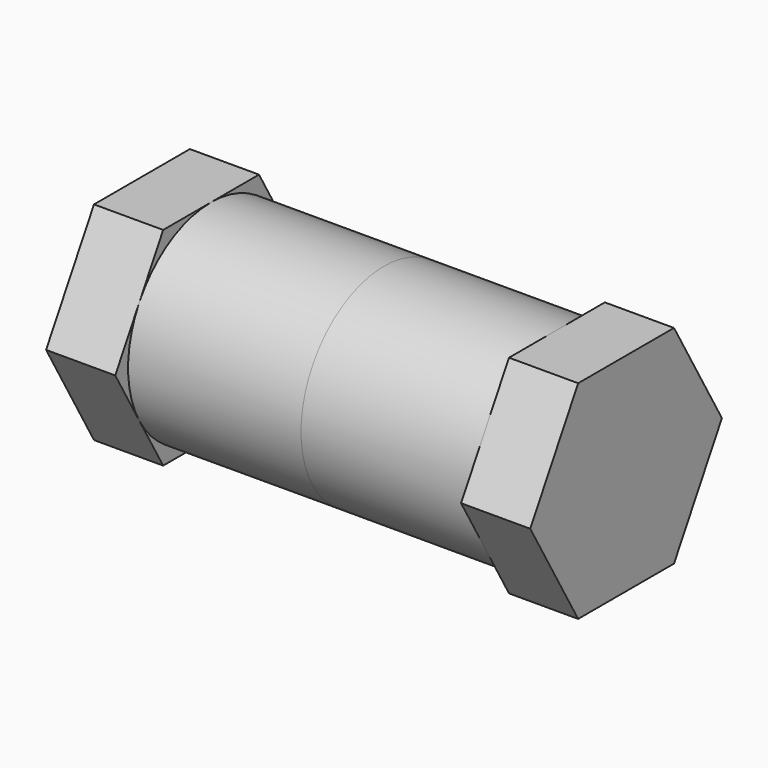
from build123d import *

# Parameters (mm, degrees)
F0_R     = 45.72
F1_DEPTH = 76.2
F3_DEPTH = 30.48


with BuildPart() as f1:
    # F0 (on Right) → F1 (new body)
    with BuildSketch(Plane.YZ):
        Circle(F0_R)
    extrude(amount=F1_DEPTH)

    # F2 (on face) → F3 (join)
    with BuildSketch(Plane.YZ.offset(76.2)):
        Polygon((-26.396454, -45.72), (26.396454, -45.72), (52.792909, 0), (26.396454, 45.72), (-26.396454, 45.72), (-52.792909, 0), align=None)
    extrude(amount=F3_DEPTH)

    # F4: F1 across plane


with BuildPart() as f1_1:
    add(f1.part)
    add(f1.part.mirror(Plane.YZ))


solid = f1_1.part
